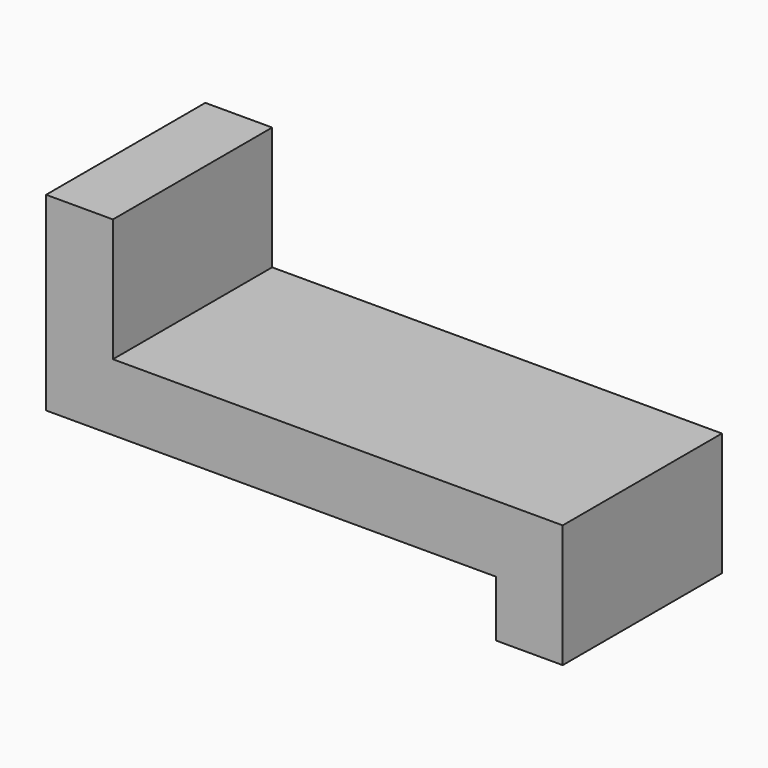
from build123d import *

# Parameters (mm, degrees)
F0_W     = 128.016
F0_H     = 22.352
F1_DEPTH = 66.548


with BuildPart() as f1:
    # F0 (on Front) → F1 (new body)
    with BuildSketch(Plane.XZ):
        Polygon((-44.265021, 16.786693), (-66.617021, 16.786693), (-66.617021, -46.713307), (-44.265021, -46.713307), (-44.265021, -24.361307), align=None)
        with Locations((19.742979, -35.537307)):
            Rectangle(F0_W, F0_H)
        Polygon((106.102979, -24.361307), (83.750979, -24.361307), (83.750979, -46.713307), (83.750979, -65.509307), (106.102979, -65.509307), align=None)
    extrude(amount=-F1_DEPTH)


solid = f1.part
